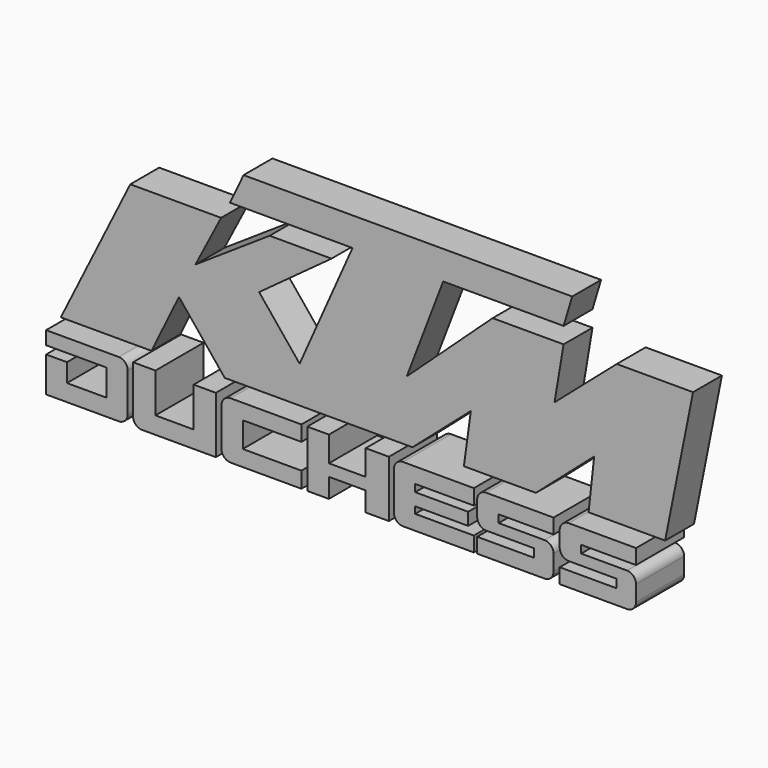
from build123d import *

# Parameters (mm, degrees)
F0_W     = 3.0607780209
F0_H     = 2.1009956449
F1_DEPTH = 5
F2_W     = 53.2925797864
F2_H     = 15.6581131741
F3_DEPTH = 2


with BuildPart() as f1:
    # F0 (on Front) → F1 (new body)
    with BuildSketch(Plane.XZ):
        with BuildLine():
            Line((-13.4510826319, 3.0807058793), (-20.9973859143, 3.0807058793))
            Line((-20.9973859143, 3.0807058793), (-26.770388545, -8.5309240967))
            Line((-26.770388545, -8.5309240967), (-26.3940021396, -8.5309240967))
            Line((-26.3940021396, -8.5309240967), (-26.3940021396, -9.6365026161))
            Line((-26.3940021396, -9.6365026161), (-21.3870331645, -9.6365026161))
            Line((-21.3870331645, -9.6365026161), (-21.3870331645, -11.8402632847))
            Line((-21.3870331645, -11.8402632847), (-24.6597826481, -11.8402632847))
            Line((-24.6597826481, -11.8402632847), (-24.6597826481, -10.3107876107))
            Line((-24.6597826481, -10.3107876107), (-26.3940021396, -10.3107876107))
            Line((-26.3940021396, -10.3107876107), (-26.3940021396, -13.2374753207))
            Line((-26.3940021396, -13.2374753207), (-20.359800871, -13.2374753207))
            ThreePointArc((-20.359800871, -13.2374753207), (-19.8294707851, -13.0178054066), (-19.609800871, -12.4874753207))
            Line((-19.609800871, -12.4874753207), (-19.609800871, -9.2809240967))
            ThreePointArc((-19.609800871, -9.2809240967), (-19.8294707851, -8.7505940108), (-20.359800871, -8.5309240967))
            Line((-20.359800871, -8.5309240967), (-19.2351932671, -8.5309240967))
            Line((-19.2351932671, -8.5309240967), (-16.9493351132, -3.8456239272))
            Line((-16.9493351132, -3.8456239272), (-13.144302211, -8.5309240967))
            Line((-13.144302211, -8.5309240967), (-14.130868949, -8.5309240967))
            Line((-14.130868949, -8.5309240967), (-14.130868949, -11.8141257167))
            Line((-14.130868949, -11.8141257167), (-17.3050090671, -11.8141257167))
            Line((-17.3050090671, -11.8141257167), (-17.3050090671, -8.5309240967))
            Line((-17.3050090671, -8.5309240967), (-19.167387858, -8.5309240967))
            Line((-19.167387858, -8.5309240967), (-19.167387858, -12.4874120876))
            ThreePointArc((-19.167387858, -12.4874120876), (-18.9477179439, -13.0177421735), (-18.417387858, -13.2374120876))
            Line((-18.417387858, -13.2374120876), (-12.2846849263, -13.2374120876))
            Line((-12.2846849263, -13.2374120876), (-12.2846849263, -8.5309240967))
            Line((-12.2846849263, -8.5309240967), (-11.065042235, -8.5309240967))
            ThreePointArc((-11.065042235, -8.5309240967), (-11.5953723208, -8.7505940108), (-11.815042235, -9.2809240967))
            Line((-11.815042235, -9.2809240967), (-11.815042235, -12.4874753207))
            ThreePointArc((-11.815042235, -12.4874753207), (-11.5953723208, -13.0178054066), (-11.065042235, -13.2374753207))
            Line((-11.065042235, -13.2374753207), (-5.1752589643, -13.2374753207))
            Line((-5.1752589643, -13.2374753207), (-5.1752589643, -11.9112924635))
            Line((-5.1752589643, -11.9112924635), (-10.0498311222, -11.9112924635))
            Line((-10.0498311222, -11.9112924635), (-10.0498311222, -9.8059958741))
            Line((-10.0498311222, -9.8059958741), (-5.1752589643, -9.8059958741))
            Line((-5.1752589643, -9.8059958741), (-5.1752589643, -8.5309240967))
            Line((-5.1752589643, -8.5309240967), (-4.6894219704, -8.5309240967))
            Line((-4.6894219704, -8.5309240967), (-4.6894219704, -13.2374753207))
            Line((-4.6894219704, -13.2374753207), (-2.891822136, -13.2374753207))
            Line((-2.891822136, -13.2374753207), (-2.891822136, -11.6197903603))
            Line((-2.891822136, -11.6197903603), (0.1689558849, -11.6197903603))
            Line((0.1689558849, -11.6197903603), (0.1689558849, -13.2374753207))
            Line((0.1689558849, -13.2374753207), (2.096112119, -13.2374753207))
            Line((2.096112119, -13.2374753207), (2.096112119, -8.5309240967))
            Line((2.096112119, -8.5309240967), (2.4571896065, -8.5309240967))
            Line((2.4571896065, -8.5309240967), (7.3034735397, -4.2975358665))
            Line((7.3034735397, -4.2975358665), (6.7291194573, -8.5309240967))
            Line((6.7291194573, -8.5309240967), (3.2661118247, -8.5309240967))
            ThreePointArc((3.2661118247, -8.5309240967), (2.7357817388, -8.7505940108), (2.5161118247, -9.2809240967))
            Line((2.5161118247, -9.2809240967), (2.5161118247, -12.4874753207))
            ThreePointArc((2.5161118247, -12.4874753207), (2.7357817388, -13.0178054066), (3.2661118247, -13.2374753207))
            Line((3.2661118247, -13.2374753207), (9.1558950953, -13.2374753207))
            Line((9.1558950953, -13.2374753207), (9.1558950953, -11.9984643534))
            Line((9.1558950953, -11.9984643534), (4.2813229375, -11.9984643534))
            Line((4.2813229375, -11.9984643534), (4.2813229375, -11.445844546))
            Line((4.2813229375, -11.445844546), (8.6850486696, -11.445844546))
            Line((8.6850486696, -11.445844546), (8.6850486696, -10.4135535657))
            Line((8.6850486696, -10.4135535657), (4.2813229375, -10.4135535657))
            Line((4.2813229375, -10.4135535657), (4.2813229375, -9.805932641))
            Line((4.2813229375, -9.805932641), (9.1558950953, -9.805932641))
            Line((9.1558950953, -9.805932641), (9.1558950953, -8.5309240967))
            Line((9.1558950953, -8.5309240967), (10.1831596047, -8.5309240967))
            ThreePointArc((10.1831596047, -8.5309240967), (9.6528295188, -8.7505940108), (9.4331596047, -9.2809240967))
            Line((9.4331596047, -9.2809240967), (9.4331596047, -10.550885953))
            ThreePointArc((9.4331596047, -10.550885953), (9.6528295188, -11.0812160389), (10.1831596047, -11.300885953))
            Line((10.1831596047, -11.300885953), (14.1622014344, -11.300885953))
            Line((14.1622014344, -11.300885953), (14.1622014344, -11.9984643534))
            Line((14.1622014344, -11.9984643534), (9.4331596047, -11.9984643534))
            Line((9.4331596047, -11.9984643534), (9.4331596047, -13.2374120876))
            Line((9.4331596047, -13.2374120876), (15.0284558833, -13.2374120876))
            ThreePointArc((15.0284558833, -13.2374120876), (15.5587859692, -13.0177421735), (15.7784558833, -12.4874120876))
            Line((15.7784558833, -12.4874120876), (15.7784558833, -11.1678693146))
            ThreePointArc((15.7784558833, -11.1678693146), (15.5587859692, -10.6375392287), (15.0284558833, -10.4178693146))
            Line((15.0284558833, -10.4178693146), (11.2140327692, -10.4178693146))
            Line((11.2140327692, -10.4178693146), (11.2140327692, -9.7743598744))
            Line((11.2140327692, -9.7743598744), (15.7784558833, -9.7743598744))
            Line((15.7784558833, -9.7743598744), (15.7784558833, -8.5309240967))
            Line((15.7784558833, -8.5309240967), (12.7156563103, -8.5309240967))
            Line((12.7156563103, -8.5309240967), (17.5534840673, -4.2975358665))
            Line((17.5534840673, -4.2975358665), (17.0895829797, -8.5309240967))
            Line((17.0895829797, -8.5309240967), (17.0398395211, -8.5309240967))
            ThreePointArc((17.0398395211, -8.5309240967), (16.5095094352, -8.7505940108), (16.2898395211, -9.2809240967))
            Line((16.2898395211, -9.2809240967), (16.2898395211, -10.550885953))
            ThreePointArc((16.2898395211, -10.550885953), (16.5095094352, -11.0812160389), (17.0398395211, -11.300885953))
            Line((17.0398395211, -11.300885953), (21.0188813508, -11.300885953))
            Line((21.0188813508, -11.300885953), (21.0188813508, -11.9984643534))
            Line((21.0188813508, -11.9984643534), (16.2898395211, -11.9984643534))
            Line((16.2898395211, -11.9984643534), (16.2898395211, -13.2374120876))
            Line((16.2898395211, -13.2374120876), (21.8851357996, -13.2374120876))
            ThreePointArc((21.8851357996, -13.2374120876), (22.4154658855, -13.0177421735), (22.6351357996, -12.4874120876))
            Line((22.6351357996, -12.4874120876), (22.6351357996, -11.1678693146))
            ThreePointArc((22.6351357996, -11.1678693146), (22.4154658855, -10.6375392287), (21.8851357996, -10.4178693146))
            Line((21.8851357996, -10.4178693146), (18.0707126856, -10.4178693146))
            Line((18.0707126856, -10.4178693146), (18.0707126856, -9.7743598744))
            Line((18.0707126856, -9.7743598744), (22.6351357996, -9.7743598744))
            Line((22.6351357996, -9.7743598744), (22.6351357996, -8.5309240967))
            Line((22.6351357996, -8.5309240967), (23.4516598284, -8.5309240967))
            Line((23.4516598284, -8.5309240967), (25.7711652666, 3.0807058793))
            Line((25.7711652666, 3.0807058793), (19.431181252, 3.0807058793))
            Line((19.431181252, 3.0807058793), (14.2619935796, -1.4036741341))
            Line((14.2619935796, -1.4036741341), (15.0130717084, 3.0807058793))
            Line((15.0130717084, 3.0807058793), (9.1148968786, 3.0807058793))
            Line((9.1148968786, 3.0807058793), (1.9796516281, -3.5022755619))
            Line((1.9796516281, -3.5022755619), (5.0060558133, 4.4282288291))
            Line((5.0060558133, 4.4282288291), (15.0130717084, 4.4282288291))
            Line((15.0130717084, 4.4282288291), (15.7288057171, 6.8140071817))
            Line((15.7288057171, 6.8140071817), (-11.583940126, 6.8140071817))
            Line((-11.583940126, 6.8140071817), (-12.7105582505, 4.4282288291))
            Line((-12.7105582505, 4.4282288291), (-2.5268180761, 4.4282288291))
            Line((-2.5268180761, 4.4282288291), (-6.9228359498, -5.4683336057))
            Line((-6.9228359498, -5.4683336057), (-10.288979272, -1.3234569953))
            Line((-10.288979272, -1.3234569953), (-4.2719710618, 3.0807058793))
            Line((-4.2719710618, 3.0807058793), (-9.4190677628, 3.0807058793))
            Line((-9.4190677628, 3.0807058793), (-15.5823286623, -1.0281349532))
            Line((-15.5823286623, -1.0281349532), (-13.4510826319, 3.0807058793))
        make_face()
        with Locations((-1.3614331256, -9.5814219192)):
            Rectangle(F0_W, F0_H, mode=Mode.SUBTRACT)
    extrude(amount=F1_DEPTH)

    # F2 (on face) → F3 (cut)
    with BuildSketch(Plane.XZ.offset(5)):
        with Locations((-0.1240986518, -0.7018675096)):
            Rectangle(F2_W, F2_H)
    extrude(amount=-F3_DEPTH, mode=Mode.SUBTRACT)


solid = f1.part
